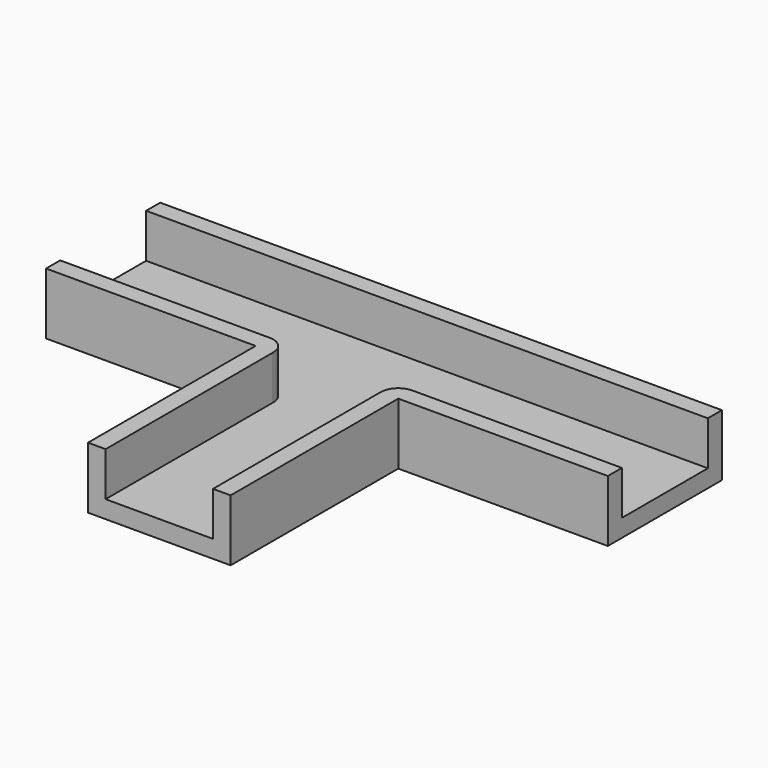
from build123d import *

# Parameters (mm, degrees)
PAD_DEPTH   = 7
THICKNESS_T = -2


with BuildPart() as part:
    # Sketch001 → Pad (new body)
    with BuildSketch(Plane.XY):
        Polygon((0, 0), (0, -23.8), (16.2, -23.8), (16.2, 0), (40, 0), (40, 16.2), (-23.8, 16.2), (-23.8, 0), align=None)
    extrude(amount=PAD_DEPTH)

    # Thickness
    thickness_openings = [part.faces().sort_by_distance(p)[0] for p in [
        (8.1, 2.66621, 7),
        (8.1, -23.8, 3.5),
        (40, 8.1, 3.5),
        (-23.8, 8.1, 3.5),
    ]]
    offset(amount=THICKNESS_T, openings=thickness_openings)


solid = part.part
